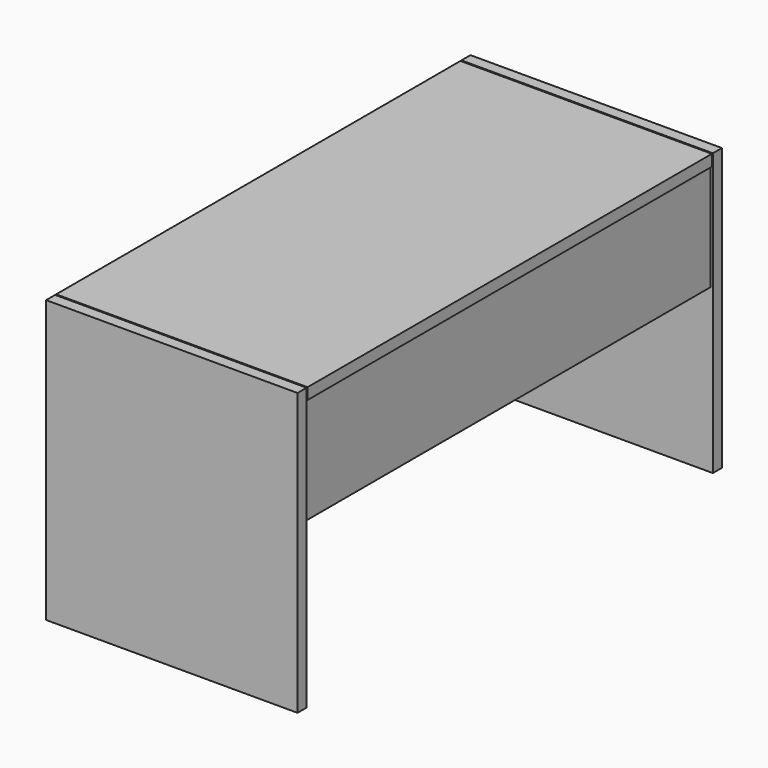
from build123d import *

# Parameters (mm, degrees)
F0_W     = 400
F0_H     = 18
F1_DEPTH = 448
F2_W     = 18
F2_H     = 170
F3_DEPTH = 808
F4_W     = 356
F4_H     = 808
F5_DEPTH = 18
F6_W     = 400
F6_H     = 804
F7_DEPTH = 18


with BuildPart() as f1:
    # F0 (on Top) → F1 (new body)
    with BuildSketch(Plane.XY):
        with Locations((200, -9)):
            Rectangle(F0_W, F0_H)
        with Locations((200, -835)):
            Rectangle(F0_W, F0_H)
    extrude(amount=F1_DEPTH)


with BuildPart() as f3:
    # F2 (on face) → F3 (new body, through all)
    with BuildSketch(Plane.XZ.offset(18)):
        with Locations((13, 344)):
            Rectangle(F2_W, F2_H)
        with Locations((387, 344)):
            Rectangle(F2_W, F2_H)
    extrude(amount=F3_DEPTH)


with BuildPart() as f5:
    # F4 (on face) → F5 (new body)
    with BuildSketch(Plane(origin=(0, 0, 259), x_dir=(1, 0, 0), z_dir=(0, 0, -1))):
        with Locations((200, 422)):
            Rectangle(F4_W, F4_H)
    extrude(amount=-F5_DEPTH)


with BuildPart() as f7:
    # F6 (on face) → F7 (new body)
    with BuildSketch(Plane.XY.offset(448)):
        with Locations((200, -422)):
            Rectangle(F6_W, F6_H)
    extrude(amount=-F7_DEPTH)


solid = Compound([f1.part, f3.part, f5.part, f7.part])
